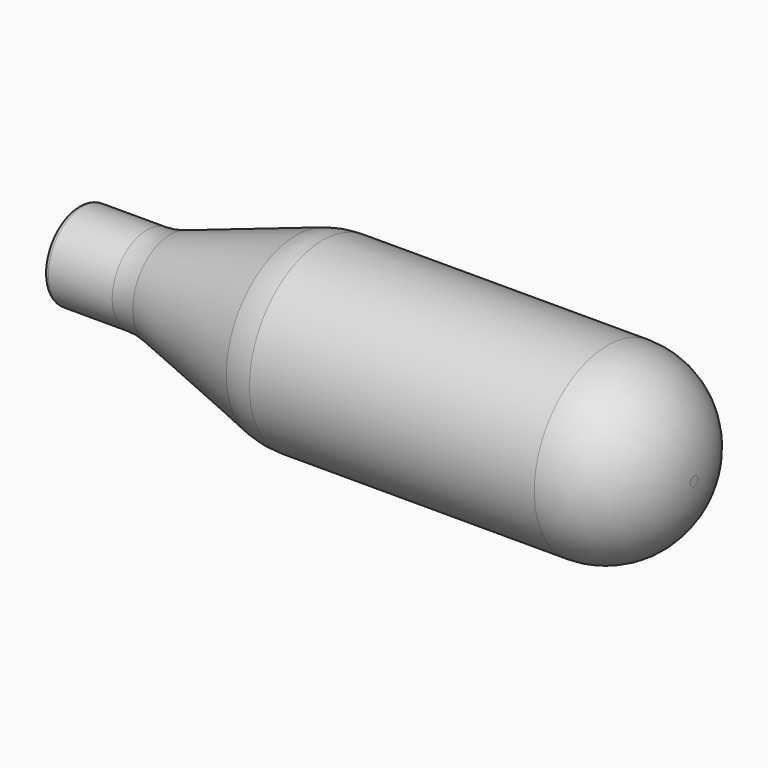
from build123d import *

# Parameters (mm, degrees)
F2_R = 9
F3_R = 9
F4_R = 8
F5_R = 0.5


with BuildPart() as f1:
    # F0 (on Front) → F1 (revolve)
    with BuildSketch(Plane.XZ):
        Polygon((0, 4.5), (0, 0), (64, 0), (64, 9.5), (24, 9.5), (8.380214, 4.5), align=None)
    revolve(axis=Axis((32, 0, 0), (1, 0, 0)))

    # F2
    f2_edges = [f1.edges().sort_by_distance(p)[0] for p in [
        (64, 0, -9.5),
    ]]
    fillet(f2_edges, radius=F2_R)

    # F3
    f3_edges = [f1.edges().sort_by_distance(p)[0] for p in [
        (24, 0, -9.5),
    ]]
    fillet(f3_edges, radius=F3_R)

    # F4
    f4_edges = [f1.edges().sort_by_distance(p)[0] for p in [
        (8.380214, 0, -4.5),
    ]]
    fillet(f4_edges, radius=F4_R)

    # F5
    f5_edges = [f1.edges().sort_by_distance(p)[0] for p in [
        (0, 0, -4.5),
    ]]
    fillet(f5_edges, radius=F5_R)


solid = f1.part
